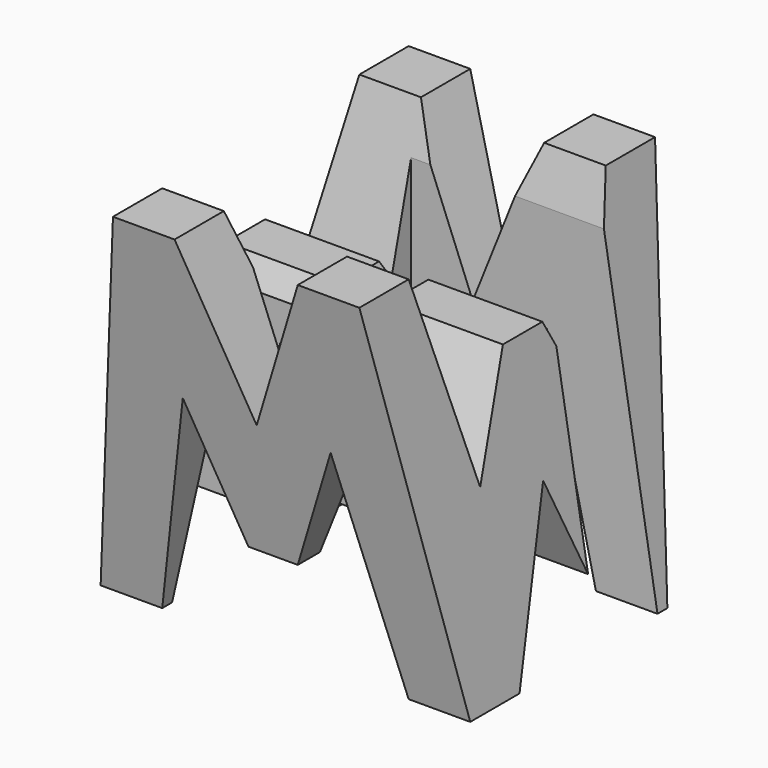
from build123d import *

# Parameters (mm, degrees)
F0_W     = 38.1
F0_H     = 38.1
F1_DEPTH = 38.1
F5_DEPTH = 38.1
F7_DEPTH = 38.1
F8_W     = 25.4
F8_H     = 7.62
F9_DEPTH = 38.1


with BuildPart() as f1:
    # F0 (on Front) → F1 (new body)
    with BuildSketch(Plane.XZ):
        with Locations((19.05, 19.05)):
            Rectangle(F0_W, F0_H)
    extrude(amount=F1_DEPTH)

    # F4 (on face) → F5 (cut)
    with BuildSketch(Plane.YZ.offset(38.1)):
        Polygon((-11.43, 18.247465), (-6.35, 38.1), (-31.75, 38.1), (-26.67, 18.247465), (-21.59, 28.575), (-16.51, 28.575), align=None)
        Polygon((-6.35, 0), (0, 0), (0, 38.1), align=None)
        Polygon((-25.4, 0), (-12.7, 0), (-19.05, 15.875), align=None)
        Polygon((-38.1, 0), (-31.75, 0), (-38.1, 38.1), align=None)
    extrude(amount=-F5_DEPTH, mode=Mode.SUBTRACT)

    # F6 (on offset) → F7 (cut)
    with BuildSketch(Plane.XZ.offset(38.1)):
        Polygon((25.4, 38.1), (12.7, 38.1), (19.05, 22.225), align=None)
        Polygon((11.43, 22.225), (6.35, 0), (31.75, 0), (26.67, 22.225), (21.59, 9.525), (16.51, 9.525), align=None)
        Polygon((0, 38.1), (0, 0), (6.35, 38.1), align=None)
        Polygon((31.75, 38.1), (38.1, 0), (38.1, 38.1), align=None)
    extrude(amount=-F7_DEPTH, mode=Mode.SUBTRACT)

    # F8 (on offset) → F9 (cut)
    with BuildSketch(Plane.XY.offset(38.1)):
        with Locations((25.4, -11.43)):
            Rectangle(F8_W, F8_H)
        with Locations((12.7, -26.67)):
            Rectangle(F8_W, F8_H)
    extrude(amount=-F9_DEPTH, mode=Mode.SUBTRACT)


solid = f1.part
